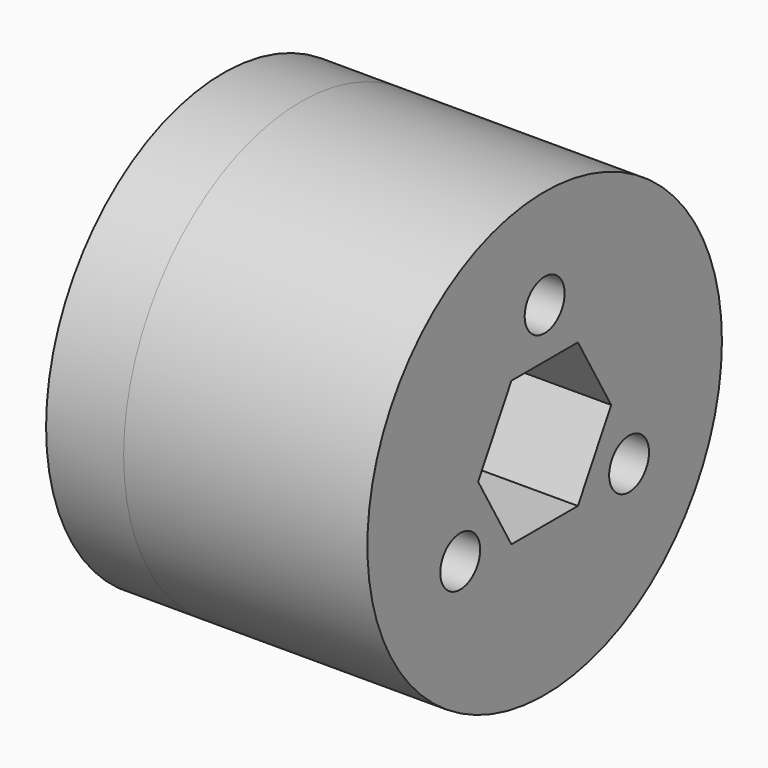
from build123d import *

# Parameters (mm, degrees)
F0_R     = 20
F0_R_2   = 2.25
F1_DEPTH = 22
F2_R     = 20
F2_R_2   = 14.25
F3_DEPTH = 7
F5_DEPTH = 13


with BuildPart() as f1:
    # F0 (on Right) → F1 (new body)
    with BuildSketch(Plane.YZ):
        Circle(F0_R)
        with Locations((-9.526279, -5.5)):
            Circle(F0_R_2, mode=Mode.SUBTRACT)
        with Locations((9.526279, -5.5)):
            Circle(F0_R_2, mode=Mode.SUBTRACT)
        with Locations((0, 11)):
            Circle(F0_R_2, mode=Mode.SUBTRACT)
    extrude(amount=F1_DEPTH)

    # F2 (on face) → F3 (join)
    with BuildSketch(Plane(origin=(0, 0, 0), x_dir=(0, -1, 0), z_dir=(-1, 0, 0))):
        Circle(F2_R)
        Circle(F2_R_2, mode=Mode.SUBTRACT)
    extrude(amount=F3_DEPTH)

    # F4 (on face) → F5 (cut)
    with BuildSketch(Plane.YZ.offset(22)):
        Polygon((3.752777, 6.5), (-3.752777, 6.5), (-7.505553, 0), (-3.752777, -6.5), (3.752777, -6.5), (7.505553, 0), align=None)
    extrude(amount=-F5_DEPTH, mode=Mode.SUBTRACT)


solid = f1.part
